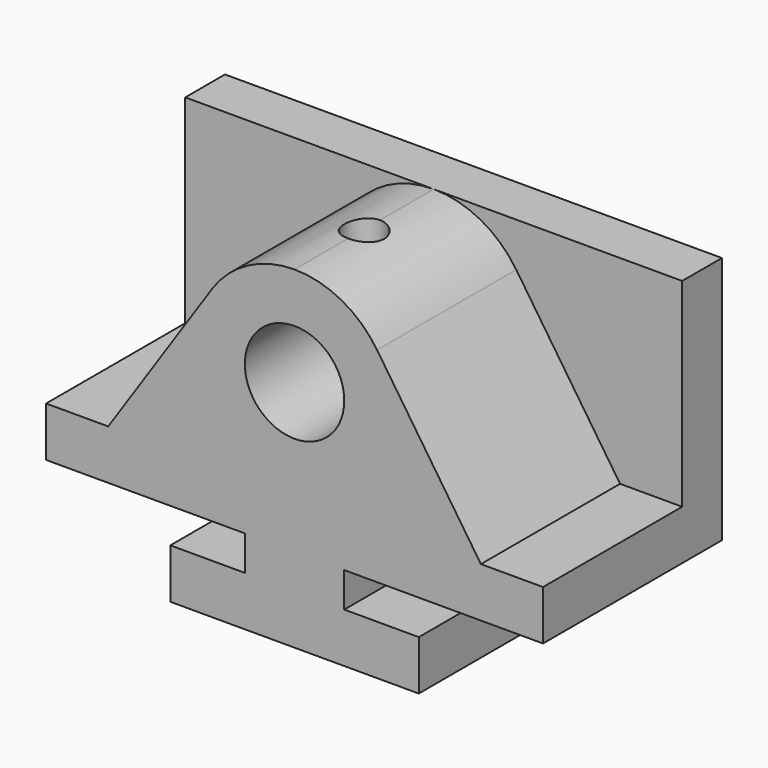
from build123d import *

# Parameters (mm, degrees)
F1_DEPTH = 57.15
F3_DEPTH = 44.45
F2_R     = 12.7
F4_DEPTH = 57.151
F5_R     = 5.08
F6_DEPTH = 25.4


with BuildPart() as f1:
    # F0 (on Front) → F1 (new body)
    with BuildSketch(Plane.XZ):
        Polygon((-31.75, 0), (31.75, 0), (31.75, 12.7), (12.7, 12.7), (12.7, 21.59), (63.5, 21.59), (63.5, 85.09), (-63.5, 85.09), (-63.5, 21.59), (-12.7, 21.59), (-12.7, 12.7), (-31.75, 12.7), align=None)
    extrude(amount=-F1_DEPTH)

    # F2 (on face) → F3 (cut)
    with BuildSketch(Plane.XZ):
        with BuildLine():
            Line((-63.5, 85.09), (-63.5, 34.29))
            Line((-63.5, 34.29), (-47.625, 34.29))
            Line((-47.625, 34.29), (-21.093426, 73.840173))
            ThreePointArc((-21.093426, 73.840173), (-11.952941, 82.101765), (0, 85.09))
            Line((0, 85.09), (-63.5, 85.09))
        make_face()
        with BuildLine():
            Line((63.5, 85.09), (0, 85.09))
            ThreePointArc((0, 85.09), (11.952941, 82.101765), (21.093426, 73.840173))
            Line((21.093426, 73.840173), (47.625, 34.29))
            Line((47.625, 34.29), (63.5, 34.29))
            Line((63.5, 34.29), (63.5, 85.09))
        make_face()
    extrude(amount=-F3_DEPTH, mode=Mode.SUBTRACT)

    # F2 (on face) → F4 (cut, through all)
    with BuildSketch(Plane.XZ):
        with Locations((0, 59.69)):
            Circle(F2_R)
    extrude(amount=-F4_DEPTH, mode=Mode.SUBTRACT)

    # F5 (on face) → F6 (cut)
    with BuildSketch(Plane.XY.offset(85.09)):
        with Locations((0, 22.225)):
            Circle(F5_R)
    extrude(amount=-F6_DEPTH, mode=Mode.SUBTRACT)


solid = f1.part
